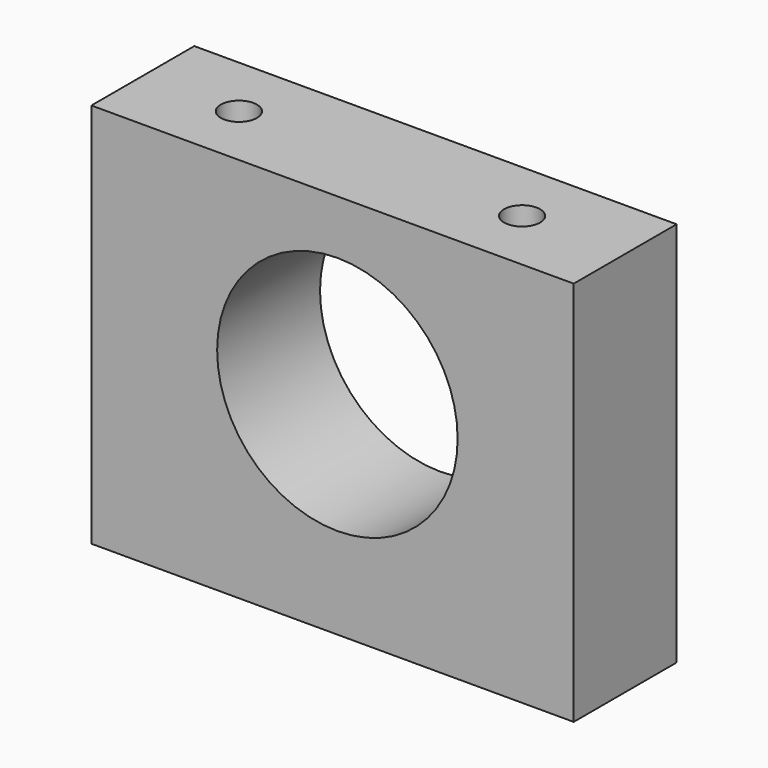
from build123d import *

# Parameters (mm, degrees)
F0_W     = 95.25
F0_H     = 76.2
F0_R     = 23.749
F1_DEPTH = 25.4
F3_D     = 7.1374


with BuildPart() as f1:
    # F0 (on Front) → F1 (new body)
    with BuildSketch(Plane.XZ):
        with Locations((-0.95523, -3.657167)):
            Rectangle(F0_W, F0_H)
        Circle(F0_R, mode=Mode.SUBTRACT)
    extrude(amount=F1_DEPTH)

    # F3 (through all)
    with Locations(Plane.XY.offset(34.442833)):
        with Locations((-29.612565, -12.7), (26.31861, -12.7)):
            Hole(F3_D / 2)


solid = f1.part
